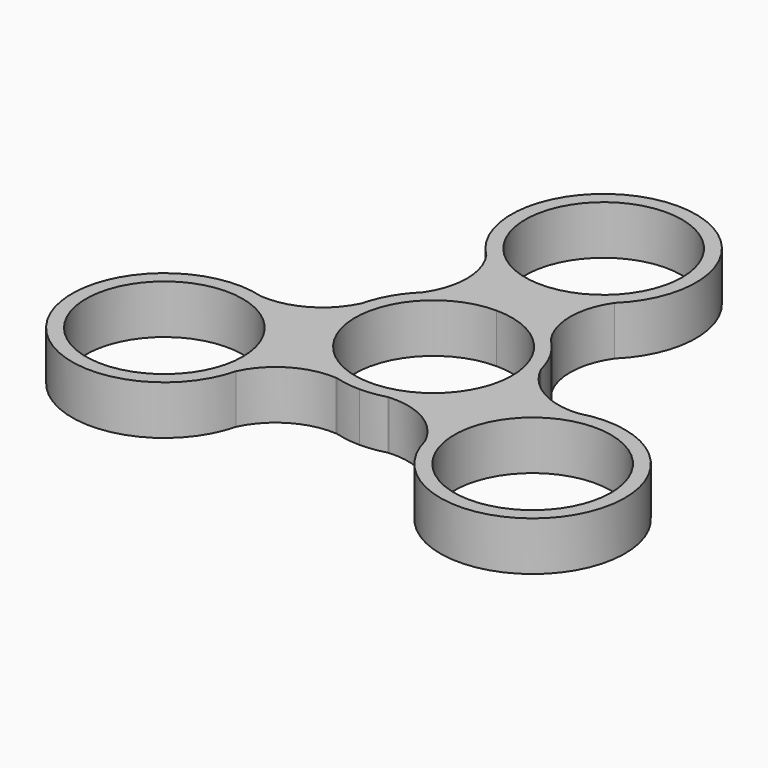
from build123d import *

# Parameters (mm, degrees)
F0_R     = 11.2
F1_DEPTH = 7


with BuildPart() as f1:
    # F0 (on Top) → F1 (new body)
    with BuildSketch(Plane.XY):
        with BuildLine():
            ThreePointArc((-9.143315, 9.533365), (-9.156617, 9.51408), (-9.169966, 9.494827))
            ThreePointArc((-9.169966, 9.494827), (-10.396797, 8.133056), (-11.423168, 6.614472))
            ThreePointArc((-11.423168, 6.614472), (-12.225115, 4.966317), (-12.791027, 3.222964))
            ThreePointArc((-12.791027, 3.222964), (-12.801027, 3.201777), (-12.811077, 3.180614))
            ThreePointArc((-12.811077, 3.180614), (-12.834837, 3.131081), (-12.858868, 3.08168))
            ThreePointArc((-12.858868, 3.08168), (-16.901134, -1.214873), (-22.661887, -2.485308))
            ThreePointArc((-22.661887, -2.485308), (-30.681149, -2.715644), (-37.085944, -7.546817))
            ThreePointArc((-37.085944, -7.546817), (-39.496438, -14.562884), (-37.741991, -21.771046))
            ThreePointArc((-37.741991, -21.771046), (-24.468139, -28.241848), (-13.5, -18.354162))
            ThreePointArc((-13.5, -18.354162), (-9.519395, -14.000421), (-3.777338, -12.647993))
            ThreePointArc((-3.777338, -12.647993), (-3.722539, -12.651881), (-3.667762, -12.656071))
            ThreePointArc((-3.667762, -12.656071), (-3.64441, -12.657949), (-3.621062, -12.659882))
            ThreePointArc((-3.621062, -12.659882), (-1.828318, -13.041465), (0, -13.171035))
            ThreePointArc((0, -13.171035), (1.828318, -13.041465), (3.621062, -12.659882))
            ThreePointArc((3.621062, -12.659882), (3.64441, -12.657949), (3.667762, -12.656071))
            ThreePointArc((3.667762, -12.656071), (3.722539, -12.651881), (3.777338, -12.647993))
            ThreePointArc((3.777338, -12.647993), (9.519395, -14.000421), (13.5, -18.354162))
            ThreePointArc((13.5, -18.354162), (37.741991, -21.771046), (22.661887, -2.485308))
            ThreePointArc((22.661887, -2.485308), (16.901134, -1.214873), (12.858868, 3.08168))
            ThreePointArc((12.858868, 3.08168), (12.834837, 3.131081), (12.811077, 3.180614))
            ThreePointArc((12.811077, 3.180614), (12.801027, 3.201777), (12.791027, 3.222964))
            ThreePointArc((12.791027, 3.222964), (12.225115, 4.966317), (11.423168, 6.614472))
            ThreePointArc((11.423168, 6.614472), (10.396797, 8.133056), (9.169966, 9.494827))
            ThreePointArc((9.169966, 9.494827), (9.156617, 9.51408), (9.143315, 9.533365))
            ThreePointArc((9.143315, 9.533365), (9.112298, 9.578708), (9.081531, 9.624221))
            ThreePointArc((9.081531, 9.624221), (7.381739, 15.273202), (9.161887, 20.897378))
            ThreePointArc((9.161887, 20.897378), (0, 43.6), (-9.161887, 20.897378))
            ThreePointArc((-9.161887, 20.897378), (-7.381739, 15.273202), (-9.081531, 9.624221))
            ThreePointArc((-9.081531, 9.624221), (-9.112298, 9.578708), (-9.143315, 9.533365))
        make_face()
        with Locations((-26.310456, -15.171046)):
            Circle(F0_R, mode=Mode.SUBTRACT)
        with Locations((26.310456, -15.171046)):
            Circle(F0_R, mode=Mode.SUBTRACT)
        with BuildLine():
            ThreePointArc((11.216717, 0.028954), (10.83292, -2.877892), (9.707832, -5.585517))
            ThreePointArc((9.707832, -5.585517), (0, -11.2), (-9.707832, -5.585517))
            ThreePointArc((-9.707832, -5.585517), (-9.716201, 5.628954), (0, 11.228942))
            ThreePointArc((0, 11.228942), (7.9304, 7.954458), (11.216717, 0.028954))
        make_face(mode=Mode.SUBTRACT)
        with Locations((0, 30.4)):
            Circle(F0_R, mode=Mode.SUBTRACT)
    extrude(amount=F1_DEPTH)


solid = f1.part
